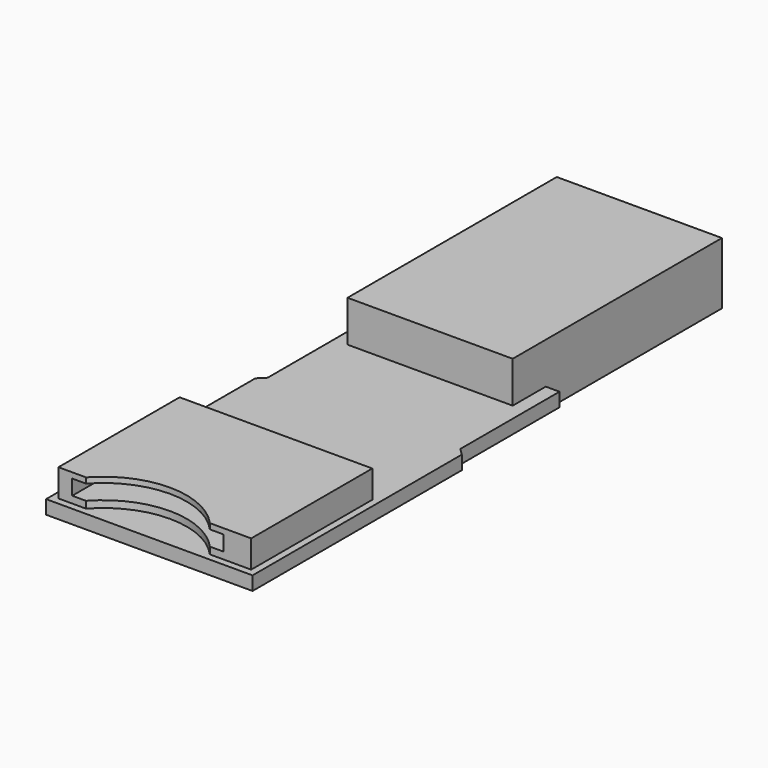
from build123d import *

# Parameters (mm, degrees)
F1_DEPTH  = 1
F3_DEPTH  = 4
F2_W      = 12
F2_H      = 19
F4_DEPTH  = 0.5
F8_DEPTH  = 2
F9_W      = 11
F9_H      = 1.1
F10_DEPTH = 10
F11_W     = 11
F11_H     = 2
F12_DEPTH = 12


with BuildPart() as f1:
    # F0 (on Top) → F1 (new body)
    with BuildSketch(Plane.XY):
        Polygon((-7.5, 0), (-7.5, -19), (7.5, -19), (7.5, 0), (7, 0.5), (7, 9.5), (6, 9.5), (6, 25.5), (-6, 25.5), (-6, 9.5), (-7, 9.5), (-7, 0.5), align=None)
    extrude(amount=F1_DEPTH)

    # F2 (on face) → F3 (join)
    with BuildSketch(Plane(origin=(0, 0, 0), x_dir=(1, 0, 0), z_dir=(0, 0, -1))):
        Polygon((-6, -9.5), (-6, -25.5), (6, -25.5), (6, -9.5), (6, -6.5), (-6, -6.5), align=None)
    extrude(amount=-F3_DEPTH)

    # F2 (on face) → F4 (join)
    with BuildSketch(Plane(origin=(0, 0, 0), x_dir=(1, 0, 0), z_dir=(0, 0, -1))):
        with Locations((0, -16)):
            Rectangle(F2_W, F2_H)
    extrude(amount=F4_DEPTH)

    # F5 (on Right) → F6 (revolve)
    with BuildSketch(Plane.YZ):
        with BuildLine():
            Line((-9, 0), (-13, 0))
            ThreePointArc((-13, 0), (-11.061553, -0.746211), (-9, -1))
            Line((-9, -1), (-9, 0))
        make_face()
    revolve(axis=Axis((0, -9, -0.5), (0, 0, -1)))

    # F7 (on face) → F8 (join)
    with BuildSketch(Plane.XY.offset(1)):
        with BuildLine():
            Line((4, -18.5), (7, -18.5))
            Line((7, -18.5), (7, -7.5))
            Line((7, -7.5), (-7, -7.5))
            Line((-7, -7.5), (-7, -18.5))
            Line((-7, -18.5), (-5, -18.5))
            ThreePointArc((-5, -18.5), (-0.5, -16.5), (4, -18.5))
        make_face()
    extrude(amount=F8_DEPTH)

    # F9 (on face) → F10 (cut)
    with BuildSketch(Plane.XZ.offset(18.5)):
        with Locations((-0.5, 2.05)):
            Rectangle(F9_W, F9_H)
    extrude(amount=-F10_DEPTH, mode=Mode.SUBTRACT)

    # F11 (on face) → F12 (cut)
    with BuildSketch(Plane(origin=(0, 25.5, 0), x_dir=(-1, 0, 0), z_dir=(0, 1, 0))):
        with Locations((0, 2.5)):
            Rectangle(F11_W, F11_H)
    extrude(amount=-F12_DEPTH, mode=Mode.SUBTRACT)


solid = f1.part
